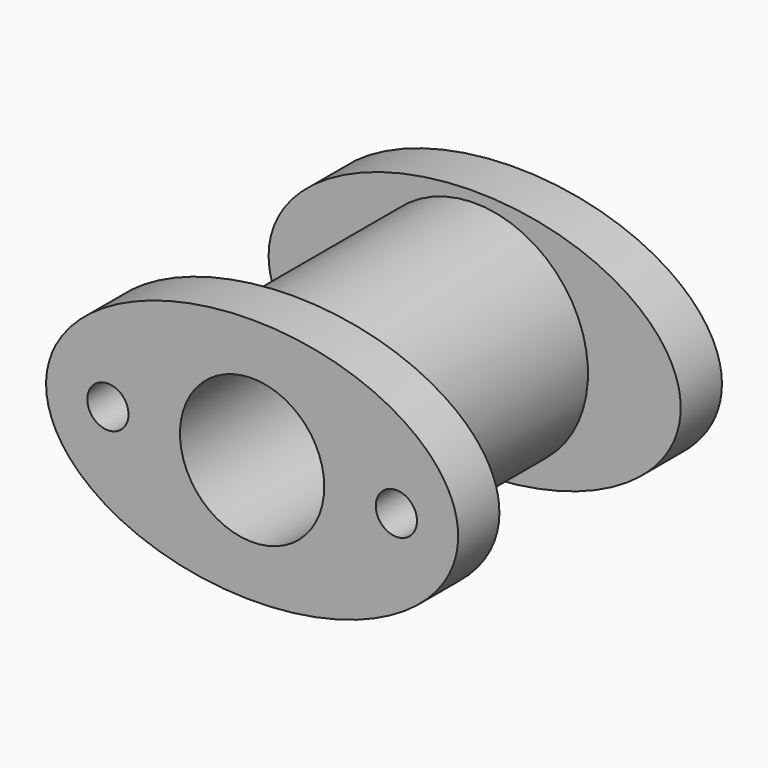
from build123d import *

# Parameters (mm, degrees)
F1_DEPTH  = 38.1
F2_R      = 15.24
F3_DEPTH  = 38.1
F4_R      = 83.82
F5_DEPTH  = 167.64
F7_DEPTH  = 38.1
F8_R      = 41.91
F9_DEPTH  = 243.84
F10_R     = 53.34
F11_DEPTH = 165.1


with BuildPart() as f1:
    # F0 (on Front) → F1 (new body)
    with BuildSketch(Plane.XZ):
        with BuildLine():
            add(Edge.make_bspline(
                [(-152.4, 0), (-152.4, -158.378726), (76.2, -79.189363), (304.8, 0), (76.2, 79.189363), (-152.4, 158.378726), (-152.4, 0)],
                knots=[0, 0, 0, 2.094395, 2.094395, 4.18879, 4.18879, 6.283185, 6.283185, 6.283185], degree=2, weights=[1, 0.5, 1, 0.5, 1, 0.5, 1]))
        make_face()
    extrude(amount=F1_DEPTH)

    # F2 (on face) → F3 (cut, through all)
    with BuildSketch(Plane.XZ.offset(38.1)):
        with Locations((-106.68, 0)):
            Circle(F2_R)
        with Locations((106.68, 0)):
            Circle(F2_R)
    extrude(amount=-F3_DEPTH, mode=Mode.SUBTRACT)

    # F4 (on face) → F5 (join)
    with BuildSketch(Plane(origin=(0, 0, 0), x_dir=(-1, 0, 0), z_dir=(0, 1, 0))):
        Circle(F4_R)
    extrude(amount=F5_DEPTH)

    # F6 (on face) → F7 (join)
    with BuildSketch(Plane(origin=(0, 167.64, 0), x_dir=(-1, 0, 0), z_dir=(0, 1, 0))):
        with BuildLine():
            add(Edge.make_bspline(
                [(152.4, 0), (152.4, 158.378726), (-76.2, 79.189363), (-304.8, 0), (-76.2, -79.189363), (152.4, -158.378726), (152.4, 0)],
                knots=[0, 0, 0, 2.094395, 2.094395, 4.18879, 4.18879, 6.283185, 6.283185, 6.283185], degree=2, weights=[1, 0.5, 1, 0.5, 1, 0.5, 1]))
        make_face()
    extrude(amount=F7_DEPTH)

    # F8 (on face) → F9 (cut, through all)
    with BuildSketch(Plane(origin=(0, 205.74, 0), x_dir=(-1, 0, 0), z_dir=(0, 1, 0))):
        Circle(F8_R)
    extrude(amount=-F9_DEPTH, mode=Mode.SUBTRACT)

    # F10 (on face) → F11 (cut)
    with BuildSketch(Plane.XZ.offset(38.1)):
        Circle(F10_R)
    extrude(amount=-F11_DEPTH, mode=Mode.SUBTRACT)


solid = f1.part
